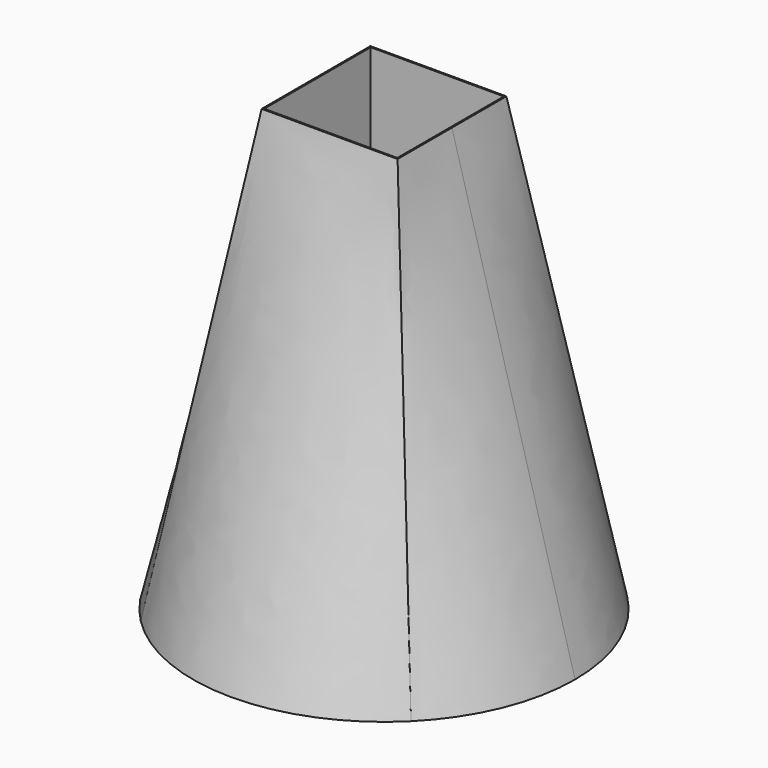
from build123d import *

# Parameters (mm, degrees)
F0_R     = 6
F2_W     = 4.27
F2_H     = 4.27
F4_W     = 4.18
F4_H     = 4.18
F5_DEPTH = 25
F6_SIZE2 = 0.8
F6_SIZE  = 0.8


with BuildPart() as f3:
    # F0 (on Top) → F3 section 0
    with BuildSketch(Plane.XY):
        Circle(F0_R)
    # F2 (on offset) → F3 section 1
    with BuildSketch(Plane.XY.offset(14)):
        Rectangle(F2_W, F2_H)
    loft()

    # F4 (on face) → F5 (cut)
    with BuildSketch(Plane.XY.offset(14)):
        Rectangle(F4_W, F4_H)
    extrude(amount=-F5_DEPTH, mode=Mode.SUBTRACT)

    # F6
    f6_edges = [f3.edges().sort_by_distance(p)[0] for p in [
        (-2.09, 0, 0),
        (0, -2.09, 0),
        (2.09, 0, 0),
        (0, 2.09, 0),
    ]]
    chamfer(f6_edges, length=F6_SIZE, length2=F6_SIZE2)


solid = f3.part
